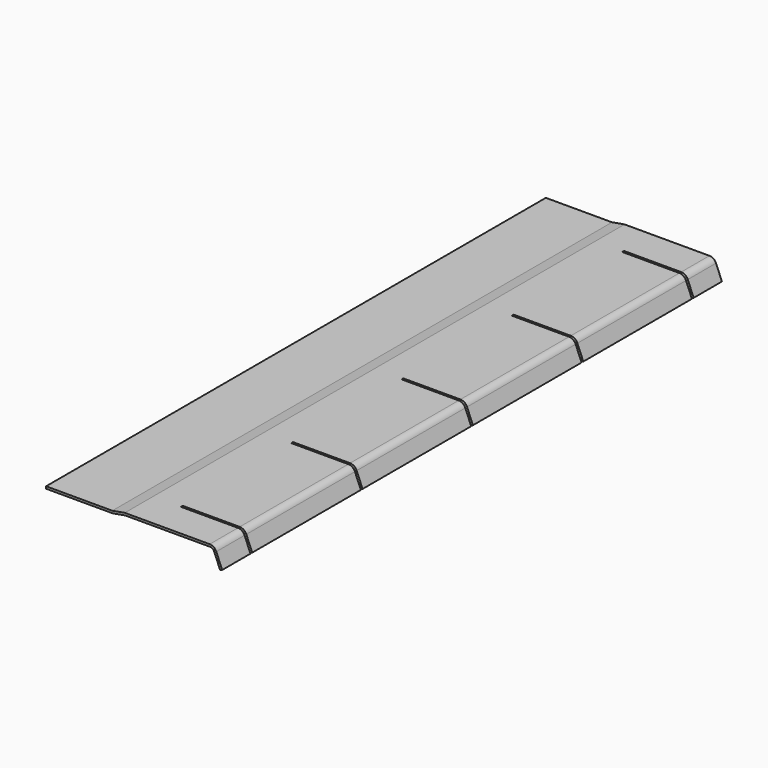
from build123d import *

# Parameters (mm, degrees)
F1_DEPTH = 1132
F2_W     = 141.117851
F2_H     = 4
F3_DEPTH = 35.318025


with BuildPart() as f1:
    # F0 (on Front) → F1 (new body)
    with BuildSketch(Plane.XZ):
        with BuildLine():
            Line((119.964918, 0), (0, 0))
            Line((0, 0), (0, -4))
            Line((0, -4), (120.314873, -4))
            Line((120.314873, -4), (143, 0))
            Line((143, 0), (296.475341, 0))
            ThreePointArc((296.475341, 0), (301.475473, -1.516773), (304.790256, -5.555849))
            Line((304.790256, -5.555849), (314.695518, -29.469266))
            Line((314.695518, -29.469266), (315.460885, -31.317025))
            Line((315.460885, -31.317025), (319.156403, -29.786292))
            Line((319.156403, -29.786292), (308.485775, -4.025115))
            ThreePointArc((308.485775, -4.025115), (303.697754, 1.809105), (296.475341, 4))
            Line((296.475341, 4), (142.650045, 4))
            Line((142.650045, 4), (119.964918, 0))
        make_face()
    extrude(amount=-F1_DEPTH)

    # F2 (on face) → F3 (cut, through all)
    with BuildSketch(Plane.XY.offset(4)):
        with Locations((263.55897, 66)):
            Rectangle(F2_W, F2_H)
        with Locations((263.55897, 316)):
            Rectangle(F2_W, F2_H)
        with Locations((263.55897, 566)):
            Rectangle(F2_W, F2_H)
        with Locations((263.55897, 816)):
            Rectangle(F2_W, F2_H)
        with Locations((263.55897, 1066)):
            Rectangle(F2_W, F2_H)
    extrude(amount=-F3_DEPTH, mode=Mode.SUBTRACT)


solid = f1.part
